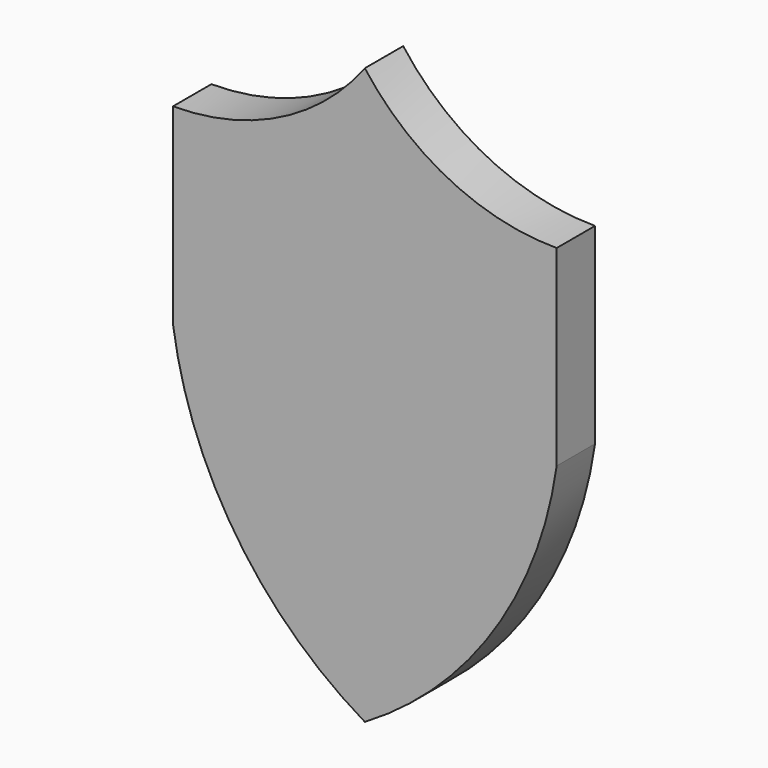
from build123d import *

# Parameters (mm, degrees)
F1_DEPTH = 76.2


with BuildPart() as f1:
    # F0 (on Front) → F1 (new body)
    with BuildSketch(Plane.XZ):
        with BuildLine():
            ThreePointArc((304.8, 914.4), (170.38838, 802.22324), (0, 762))
            Line((0, 762), (0, 457.2))
            ThreePointArc((0, 457.2), (100.385978, 193.923985), (304.8, 0))
            ThreePointArc((304.8, 0), (509.214022, 193.923985), (609.6, 457.2))
            Line((609.6, 457.2), (609.6, 762))
            ThreePointArc((609.6, 762), (439.21162, 802.22324), (304.8, 914.4))
        make_face()
    extrude(amount=F1_DEPTH)


solid = f1.part
